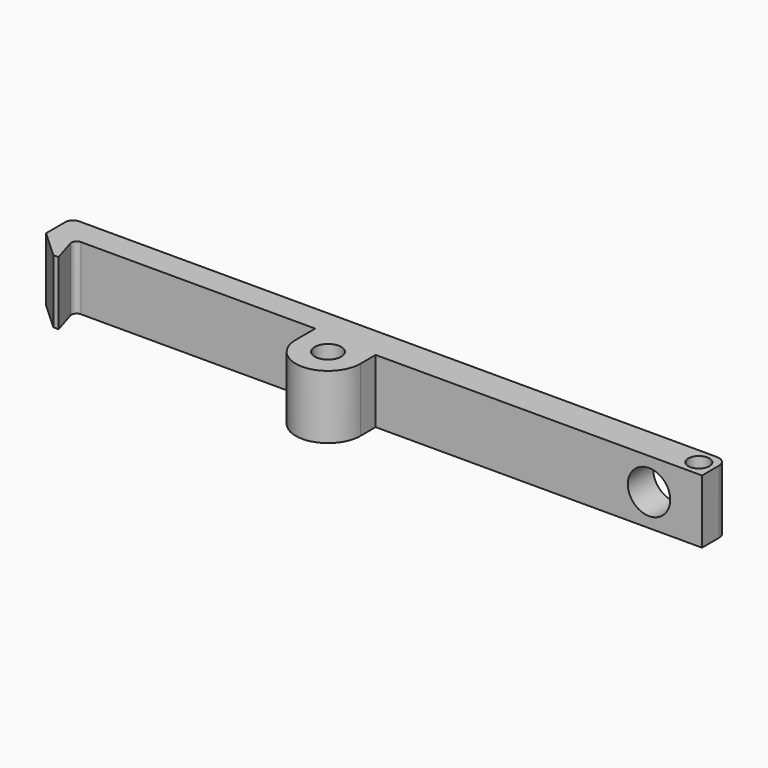
from build123d import *

# Parameters (mm, degrees)
F0_R     = 1.25
F0_R_2   = 1
F1_DEPTH = 6
F3_D     = 4


with BuildPart() as f1:
    # F0 (on Top) → F1 (new body)
    with BuildSketch(Plane.XY):
        with BuildLine():
            Line((29.8, 3), (-30.4, 3))
            ThreePointArc((-30.4, 3), (-30.894975, 2.794975), (-31.1, 2.3))
            Line((-31.1, 2.3), (-31.1, 0))
            Line((-31.1, 0), (-28.5, -2.4))
            Line((-28.5, -2.4), (-28, -2.4))
            Line((-28, -2.4), (-28.691283, -0.146644))
            ThreePointArc((-28.691283, -0.146644), (-28.615341, 0.297219), (-28.213271, 0.5))
            Line((-28.213271, 0.5), (-6.1, 0.5))
            Line((-6.1, 0.5), (-6.1, -1.8))
            ThreePointArc((-6.1, -1.8), (-3.05, -4.85), (0, -1.8))
            Line((0, -1.8), (0, 0))
            Line((0, 0), (30.8, 0))
            Line((30.8, 0), (30.8, 2))
            ThreePointArc((30.8, 2), (30.507107, 2.707107), (29.8, 3))
        make_face()
        with Locations((-3.05, -1.8)):
            Circle(F0_R, mode=Mode.SUBTRACT)
        with Locations((29.3, 1.5)):
            Circle(F0_R_2, mode=Mode.SUBTRACT)
    extrude(amount=F1_DEPTH)

    # F3 (through all)
    with Locations(Plane(origin=(0, 3, 0), x_dir=(-1, 0, 0), z_dir=(0, 1, 0))):
        with Locations((-25.8, 3)):
            Hole(F3_D / 2)


solid = f1.part
